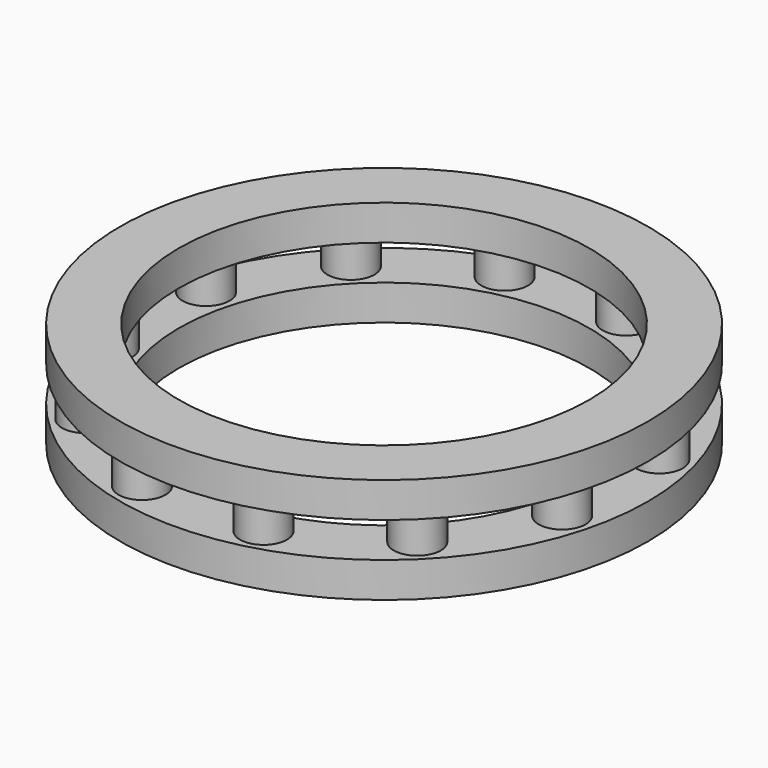
from build123d import *

# Parameters (mm, degrees)
SKETCH_R      = 45
SKETCH_R_2    = 35
PAD_DEPTH     = 6
SKETCH002_R   = 4
PAD001_DEPTH  = 6
SKETCH003_R   = 45
SKETCH003_R_2 = 35
PAD002_DEPTH  = 6


with BuildPart() as part:
    # Sketch → Pad (new body)
    with BuildSketch(Plane.XY):
        Circle(SKETCH_R)
        Circle(SKETCH_R_2, mode=Mode.SUBTRACT)
    extrude(amount=PAD_DEPTH)

    # Sketch002 (on Face4 of Pad) → Pad001 (join)
    with BuildSketch(Plane.XY.offset(6)):
        with Locations((10.352762, 38.637033)):
            Circle(SKETCH002_R)
        with Locations((28.284271, 28.284271)):
            Circle(SKETCH002_R)
        with Locations((38.637033, 10.352762)):
            Circle(SKETCH002_R)
        with Locations((38.637033, -10.352762)):
            Circle(SKETCH002_R)
        with Locations((28.284271, -28.284271)):
            Circle(SKETCH002_R)
        with Locations((10.352762, -38.637033)):
            Circle(SKETCH002_R)
        with Locations((-10.352762, -38.637033)):
            Circle(SKETCH002_R)
        with Locations((-28.284271, -28.284271)):
            Circle(SKETCH002_R)
        with Locations((-38.637033, -10.352762)):
            Circle(SKETCH002_R)
        with Locations((-38.637033, 10.352762)):
            Circle(SKETCH002_R)
        with Locations((-28.284271, 28.284271)):
            Circle(SKETCH002_R)
        with Locations((-10.352762, 38.637033)):
            Circle(SKETCH002_R)
    extrude(amount=PAD001_DEPTH)

    # Sketch003 (on Face19 of Pad001) → Pad002 (join)
    with BuildSketch(Plane.XY.offset(12)):
        Circle(SKETCH003_R)
        Circle(SKETCH003_R_2, mode=Mode.SUBTRACT)
    extrude(amount=PAD002_DEPTH)


solid = part.part
